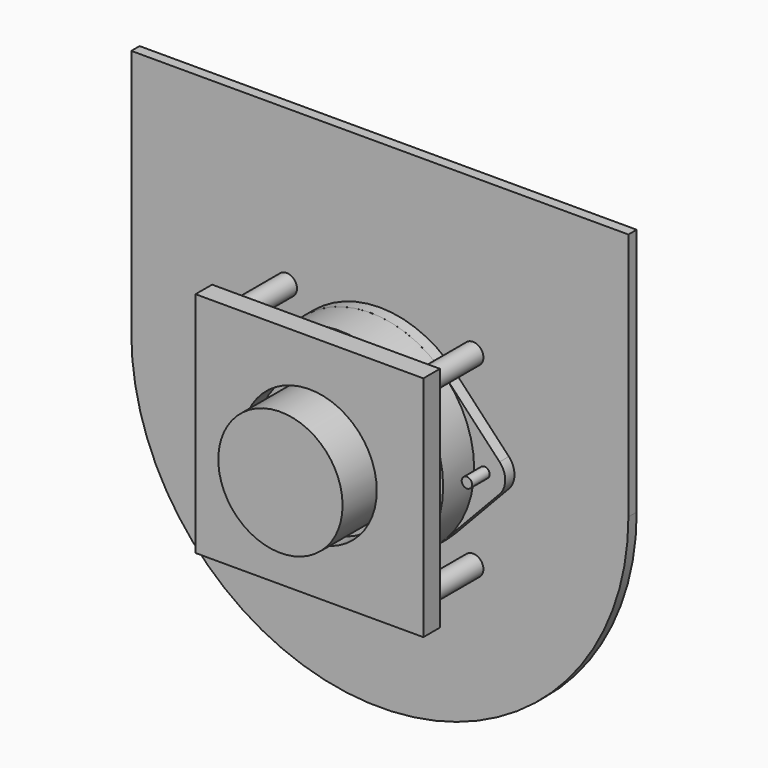
from build123d import *

# Parameters (mm, degrees)
F0_R      = 82.55
F1_DEPTH  = 12.7
F2_R      = 76.2
F3_DEPTH  = 152.4
F2_R_2    = 6.35
F4_DEPTH  = 41.275
F2_R_3    = 12.7
F5_DEPTH  = 82.55
F6_DEPTH  = 82.55
F7_W      = 279.4
F7_H      = 279.4
F7_R      = 12.7
F7_R_2    = 82.55
F8_DEPTH  = 25.4
F9_R      = 6.35
F9_R_2    = 82.55
F9_R_3    = 79.375
F10_DEPTH = 14.224
F12_R     = 127
F12_R_2   = 79.375
F13_DEPTH = 47.498


with BuildPart() as f1:
    # F0 (on Front) → F1 (new body)
    with BuildSketch(Plane.XZ):
        with BuildLine():
            Line((-304.8, 304.8), (-304.8, 0))
            ThreePointArc((-304.8, 0), (0, -304.8), (304.8, 0))
            Line((304.8, 0), (304.8, 304.8))
            Line((304.8, 304.8), (-304.8, 304.8))
        make_face()
        Circle(F0_R, mode=Mode.SUBTRACT)
    extrude(amount=-F1_DEPTH)

    # F2 (on Front) → F4 (join)
    with BuildSketch(Plane.XZ):
        with Locations((-139.7, 0)):
            Circle(F2_R_2)
        with Locations((139.7, 0)):
            Circle(F2_R_2)
    extrude(amount=F4_DEPTH)

    # F2 (on Front) → F5 (join)
    with BuildSketch(Plane.XZ):
        with Locations((114.3, 114.3)):
            Circle(F2_R_3)
    extrude(amount=F5_DEPTH)

    # F2 (on Front) → F6 (join)
    with BuildSketch(Plane.XZ):
        with Locations((-114.3, 114.3)):
            Circle(F2_R_3)
        with Locations((114.3, -114.3)):
            Circle(F2_R_3)
        with Locations((-114.3, -114.3)):
            Circle(F2_R_3)
    extrude(amount=F6_DEPTH)

    # F7 (on face) → F8 (join)
    with BuildSketch(Plane.XZ.offset(82.55)):
        Rectangle(F7_W, F7_H)
        with Locations((-114.3, 114.3)):
            Circle(F7_R, mode=Mode.SUBTRACT)
        Circle(F7_R_2, mode=Mode.SUBTRACT)
        with Locations((-114.3, 114.3)):
            Circle(F7_R)
    extrude(amount=F8_DEPTH)


with BuildPart() as f3:
    # F2 (on Front) → F3 (new body)
    with BuildSketch(Plane.XZ):
        Circle(F2_R)
    extrude(amount=F3_DEPTH)


with BuildPart() as f10:
    # F9 (on face) → F10 (new body)
    with BuildSketch(Plane.XZ):
        with BuildLine():
            Line((-92.363636, 87.16627), (-158.172727, 17.433254))
            ThreePointArc((-158.172727, 17.433254), (-165.1, 0), (-158.172727, -17.433254))
            Line((-158.172727, -17.433254), (-92.363636, -87.16627))
            ThreePointArc((-92.363636, -87.16627), (0, -127), (92.363636, -87.16627))
            Line((92.363636, -87.16627), (158.172727, -17.433254))
            ThreePointArc((158.172727, -17.433254), (165.1, 0), (158.172727, 17.433254))
            Line((158.172727, 17.433254), (92.363636, 87.16627))
            ThreePointArc((92.363636, 87.16627), (0, 127), (-92.363636, 87.16627))
        make_face()
        with Locations((-139.7, 0)):
            Circle(F9_R, mode=Mode.SUBTRACT)
        Circle(F9_R_2, mode=Mode.SUBTRACT)
        with Locations((139.7, 0)):
            Circle(F9_R, mode=Mode.SUBTRACT)
        Circle(F9_R_2)
        Circle(F9_R_3, mode=Mode.SUBTRACT)
    extrude(amount=F10_DEPTH)


with BuildPart() as f13:
    # F12 (on offset) → F13 (new body)
    with BuildSketch(Plane.XZ.offset(14.224)):
        Circle(F12_R)
        Circle(F12_R_2, mode=Mode.SUBTRACT)
    extrude(amount=F13_DEPTH)


solid = Compound([f1.part, f3.part, f10.part, f13.part])
